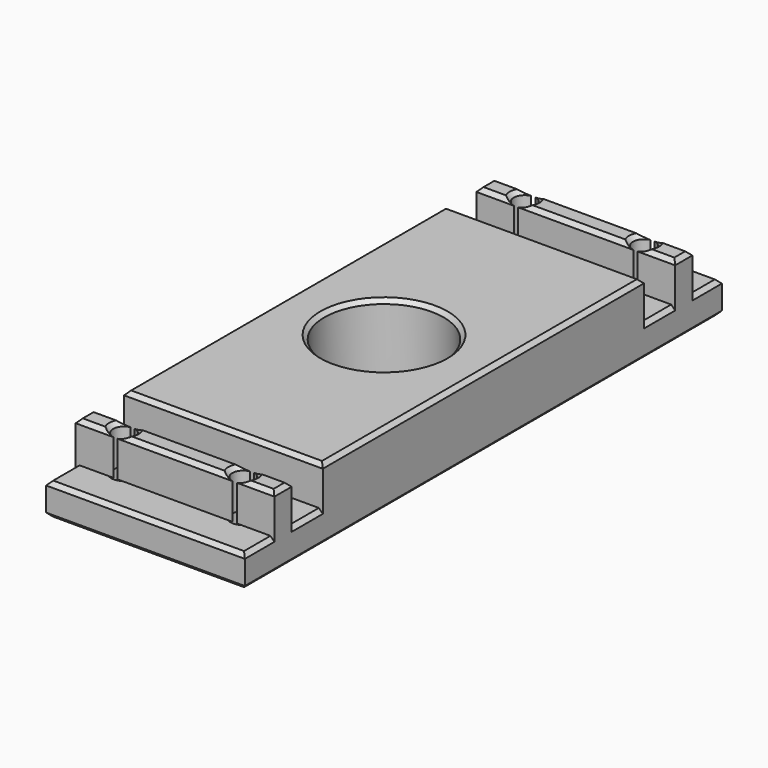
from build123d import *

# Parameters (mm, degrees)
SKETCH013_W     = 50
SKETCH013_H     = 150
PAD008_DEPTH    = 8
SKETCH014_W     = 50
SKETCH014_H     = 5.4
SKETCH014_H_2   = 101
PAD009_DEPTH    = 10
SKETCH015_R     = 2.75
POCKET003_DEPTH = 18.001
SKETCH016_R     = 3.2
POCKET004_DEPTH = 8
SKETCH017_R     = 15
POCKET005_DEPTH = 18.001
CHAMFER002_SIZE = 1


with BuildPart() as part:
    # Sketch013 → Pad008 (new body)
    with BuildSketch(Plane.XY.offset(-8)):
        Rectangle(SKETCH013_W, SKETCH013_H)
    extrude(amount=PAD008_DEPTH)

    # Sketch014 → Pad009 (join)
    with BuildSketch(Plane.XY):
        with Locations((0, 63)):
            Rectangle(SKETCH014_W, SKETCH014_H)
        with Locations((0, -63)):
            Rectangle(SKETCH014_W, SKETCH014_H)
        Rectangle(SKETCH014_W, SKETCH014_H_2)
    extrude(amount=PAD009_DEPTH)

    # Sketch015 (on Face18 of Pad009) → Pocket003 (cut, through all)
    with BuildSketch(Plane.XY.offset(10)):
        with Locations((-15, 63)):
            Circle(SKETCH015_R)
        with Locations((15, 63)):
            Circle(SKETCH015_R)
        with Locations((-15, -63)):
            Circle(SKETCH015_R)
        with Locations((15, -63)):
            Circle(SKETCH015_R)
    extrude(amount=-POCKET003_DEPTH, mode=Mode.SUBTRACT)

    # Sketch016 (on Face4 of Pocket003) → Pocket004 (cut)
    with BuildSketch(Plane(origin=(0, 0, -8), x_dir=(1, 0, 0), z_dir=(0, 0, -1))):
        with Locations((-15, -63)):
            Circle(SKETCH016_R)
        with Locations((15, -63)):
            Circle(SKETCH016_R)
        with Locations((15, 63)):
            Circle(SKETCH016_R)
        with Locations((-15, 63)):
            Circle(SKETCH016_R)
    extrude(amount=-POCKET004_DEPTH, mode=Mode.SUBTRACT)

    # Sketch017 (on Face26 of Pocket004) → Pocket005 (cut, through all)
    with BuildSketch(Plane.XY.offset(10)):
        Circle(SKETCH017_R)
    extrude(amount=-POCKET005_DEPTH, mode=Mode.SUBTRACT)

    # Chamfer002
    chamfer002_edges = [part.edges().sort_by_distance(p)[0] for p in [
        (-25, 0, 10),
        (0, 50.5, 10),
        (0, -50.5, 10),
        (25, 0, 10),
        (-15, 0, 10),
        (20.261008, 65.7, 10),
        (25, 63, 10),
        (20.261008, 60.3, 10),
        (17.12109, 61.24972, 10),
        (17.12109, 64.75028, 10),
        (0, 65.7, 10),
        (12.25, 63, 10),
        (0, 60.3, 10),
        (-12.87891, 61.24972, 10),
        (-12.87891, 64.75028, 10),
        (-20.261008, 65.7, 10),
        (-17.75, 63, 10),
        (-20.261008, 60.3, 10),
        (-25, 63, 10),
        (20.261008, -60.3, 10),
        (25, -63, 10),
        (20.261008, -65.7, 10),
        (17.12109, -64.75028, 10),
        (17.12109, -61.24972, 10),
        (0, -60.3, 10),
        (12.25, -63, 10),
        (0, -65.7, 10),
        (-12.87891, -64.75028, 10),
        (-12.87891, -61.24972, 10),
        (-20.261008, -60.3, 10),
        (-17.75, -63, 10),
        (-20.261008, -65.7, 10),
        (-25, -63, 10),
        (0, -75, 0),
        (25, -55.4, 0),
        (25, -70.35, 0),
        (-25, -70.35, 0),
        (-25, -55.4, 0),
        (-25, 55.4, 0),
        (25, 55.4, 0),
        (25, 70.35, 0),
        (0, 75, 0),
        (-25, 70.35, 0),
        (-25, 0, -8),
        (0, 75, -8),
        (0, -75, -8),
        (25, 0, -8),
        (-18.2, -63, -8),
        (11.8, -63, -8),
        (-15, 0, -8),
        (-18.2, 63, -8),
        (11.8, 63, -8),
    ]]
    chamfer(chamfer002_edges, length=CHAMFER002_SIZE)


solid = part.part
